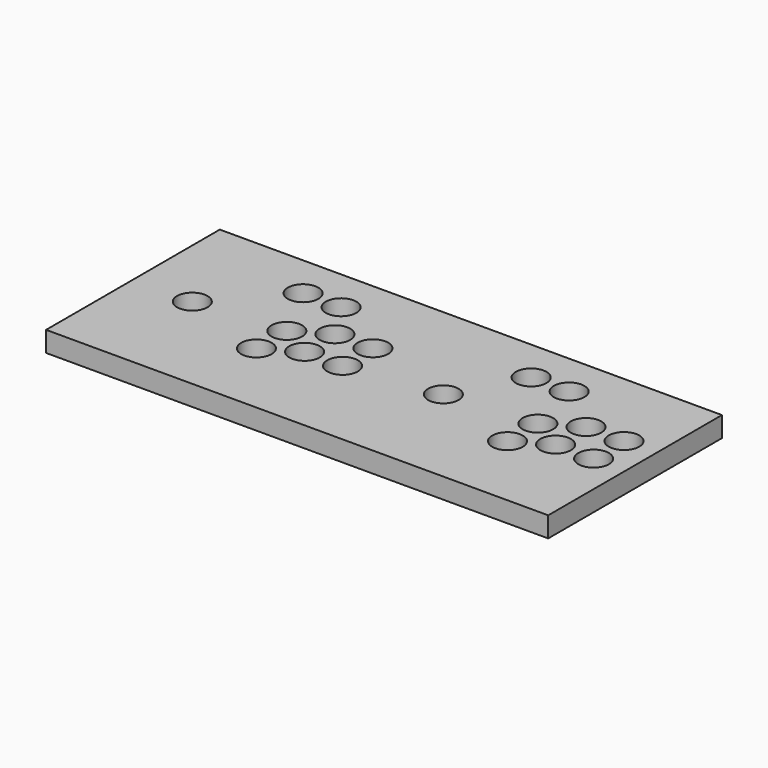
from build123d import *

# Parameters (mm, degrees)
F0_W     = 469.9
F0_H     = 203.2
F0_W_2   = 79.375
F0_H_2   = 88.9
F0_R     = 14.2875
F1_DEPTH = 19.05


with BuildPart() as f1:
    # F0 (on Top) → F1 (new body)
    with BuildSketch(Plane.XY):
        Rectangle(F0_W, F0_H)
        with Locations((-179.3875, 0)):
            Rectangle(F0_W_2, F0_H_2, mode=Mode.SUBTRACT)
        with Locations((-96.518363, -28.575)):
            Circle(F0_R, mode=Mode.SUBTRACT)
        with Locations((-65.7225, -10.795)):
            Circle(F0_R, mode=Mode.SUBTRACT)
        with Locations((-30.1625, -10.795)):
            Circle(F0_R, mode=Mode.SUBTRACT)
        with Locations((55.5625, 0)):
            Rectangle(F0_W_2, F0_H_2, mode=Mode.SUBTRACT)
        with Locations((138.431637, -28.575)):
            Circle(F0_R, mode=Mode.SUBTRACT)
        with Locations((169.2275, -10.795)):
            Circle(F0_R, mode=Mode.SUBTRACT)
        with Locations((204.7875, -10.795)):
            Circle(F0_R, mode=Mode.SUBTRACT)
        with Locations((-96.518363, 6.985)):
            Circle(F0_R, mode=Mode.SUBTRACT)
        with Locations((-65.7225, 24.765)):
            Circle(F0_R, mode=Mode.SUBTRACT)
        with Locations((-30.1625, 24.765)):
            Circle(F0_R, mode=Mode.SUBTRACT)
        with Locations((-124.46, 60.96)):
            Circle(F0_R, mode=Mode.SUBTRACT)
        with Locations((-88.9, 60.96)):
            Circle(F0_R, mode=Mode.SUBTRACT)
        with Locations((138.431637, 6.985)):
            Circle(F0_R, mode=Mode.SUBTRACT)
        with Locations((169.2275, 24.765)):
            Circle(F0_R, mode=Mode.SUBTRACT)
        with Locations((204.7875, 24.765)):
            Circle(F0_R, mode=Mode.SUBTRACT)
        with Locations((88.9, 60.96)):
            Circle(F0_R, mode=Mode.SUBTRACT)
        with Locations((124.46, 60.96)):
            Circle(F0_R, mode=Mode.SUBTRACT)
        with Locations((-179.3875, 0)):
            Rectangle(F0_W_2, F0_H_2)
        with Locations((-179.3875, 0)):
            Circle(F0_R, mode=Mode.SUBTRACT)
        with Locations((55.5625, 0)):
            Rectangle(F0_W_2, F0_H_2)
        with Locations((55.5625, 0)):
            Circle(F0_R, mode=Mode.SUBTRACT)
    extrude(amount=F1_DEPTH)


solid = f1.part
